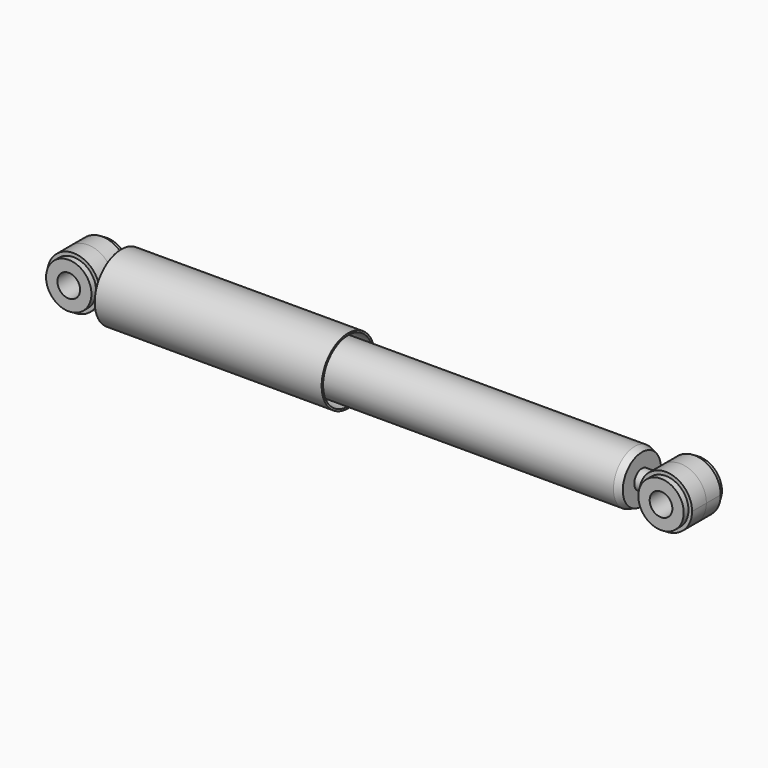
from build123d import *

# Parameters (mm, degrees)
F0_W     = 188.5
F0_H     = 4
F0_W_2   = 12
F0_H_2   = 2
F0_W_3   = 238
F2_R     = 22
F2_R_2   = 19
F3_DEPTH = 15
F4_R     = 19
F4_R_2   = 9.5
F5_DEPTH = 20


with BuildPart() as f1:
    # F0 (on Front) → F1 (revolve)
    with BuildSketch(Plane.XZ):
        Polygon((28, 6.5574385243), (28, 0), (29.5, 0), (29.5, 4), (29.5, 26.25), (218, 26.25), (218, 27.75), (28, 27.75), align=None)
        with BuildLine():
            ThreePointArc((21, 6.5574385243), (21.7485631709, 3.3166247904), (22, 0))
            Line((22, 0), (28, 0))
            Line((28, 0), (28, 6.5574385243))
            Line((28, 6.5574385243), (21, 6.5574385243))
        make_face()
        with Locations((123.75, 2)):
            Rectangle(F0_W, F0_H)
        Polygon((456, 4), (456, 0), (458, 0), (458, 22.25), (218, 22.25), (218, 20.25), (456, 20.25), align=None)
        with Locations((212, 21.25)):
            Rectangle(F0_W_2, F0_H_2)
        with Locations((337, 2)):
            Rectangle(F0_W_3, F0_H)
        Polygon((458, 22.25), (458, 0), (464, 0), (464, 8), (464, 20), align=None)
        with BuildLine():
            Line((464, 8), (464, 0))
            Line((464, 0), (474, 0))
            ThreePointArc((474, 0), (474.2514368291, 3.3166247904), (475, 6.5574385243))
            Line((475, 6.5574385243), (475, 8))
            Line((475, 8), (464, 8))
        make_face()
        with BuildLine():
            ThreePointArc((475, 6.5574385243), (474.2514368291, 3.3166247904), (474, 0))
            Line((474, 0), (475, 0))
            Line((475, 0), (475, 6.5574385243))
        make_face()
    revolve(axis=Axis((242.75, 0, 0), (-1, 0, 0)))

    # F2 (on Front) → F3 (join, symmetric)
    with BuildSketch(Plane.XZ):
        Circle(F2_R)
        Circle(F2_R_2, mode=Mode.SUBTRACT)
        with BuildLine():
            ThreePointArc((518, 0), (499.3166247904, 21.7485631709), (475, 6.5574385243))
            Line((475, 6.5574385243), (475, -6.5574385243))
            ThreePointArc((475, -6.5574385243), (499.3166247904, -21.7485631709), (518, 0))
        make_face()
        with Locations((496, 0)):
            Circle(F2_R_2, mode=Mode.SUBTRACT)
        with BuildLine():
            Line((475, -6.5574385243), (475, 6.5574385243))
            ThreePointArc((475, 6.5574385243), (474, 0), (475, -6.5574385243))
        make_face()
    extrude(amount=F3_DEPTH, both=True)

    # F4 (on Front) → F5 (join, symmetric)
    with BuildSketch(Plane.XZ):
        Circle(F4_R)
        Circle(F4_R_2, mode=Mode.SUBTRACT)
        with Locations((496, 0)):
            Circle(F4_R)
        with Locations((496, 0)):
            Circle(F4_R_2, mode=Mode.SUBTRACT)
    extrude(amount=F5_DEPTH, both=True)


solid = f1.part
